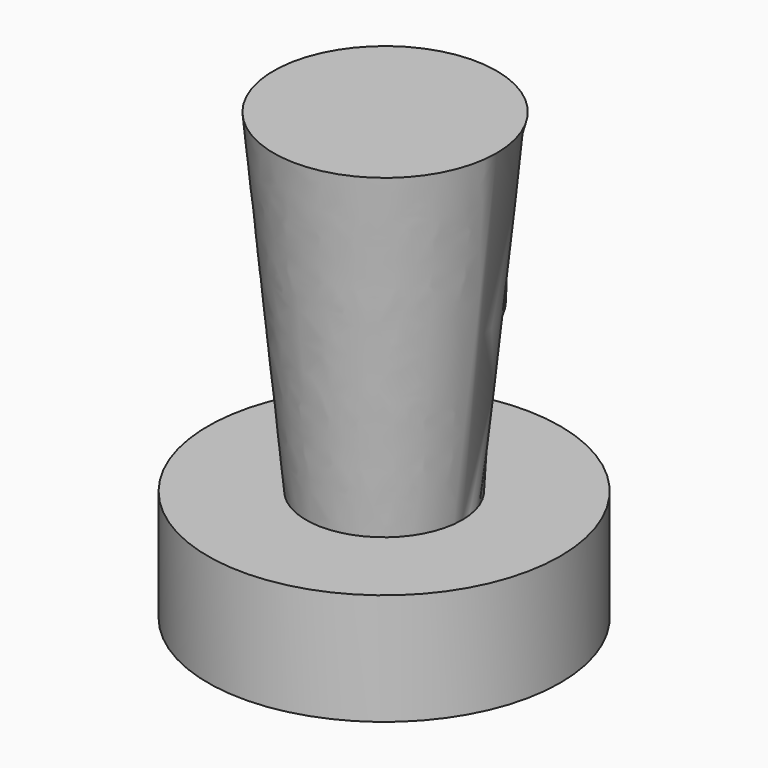
from build123d import *

# Parameters (mm, degrees)
F0_R     = 7.9
F1_DEPTH = 5
F4_R     = 5
F2_R     = 3.5


with BuildPart() as f1:
    # F0 (on Top) → F1 (new body)
    with BuildSketch(Plane.XY):
        with Locations((-18.678842, 1.793169)):
            Circle(F0_R)
    extrude(amount=F1_DEPTH)

    # F4 (on offset) → F5 section 0
    with BuildSketch(Plane.XY.offset(20)):
        with Locations((-18.616144, 1.77052)):
            Circle(F4_R)
    # F2 (on face) → F5 section 1
    with BuildSketch(Plane.XY.offset(5)):
        with Locations((-18.678842, 1.793169)):
            Circle(F2_R)
    loft()


solid = f1.part
